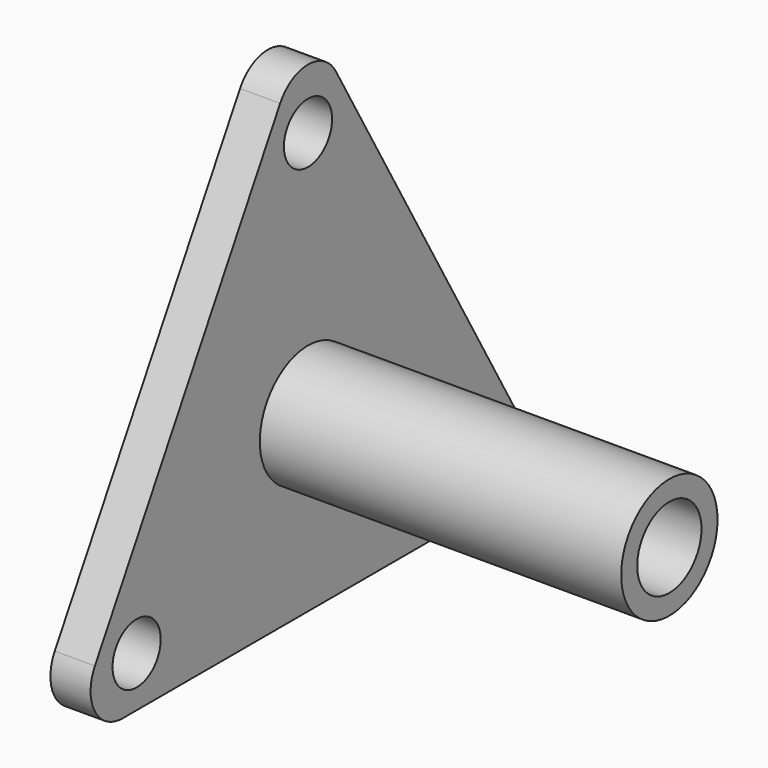
from build123d import *

# Parameters (mm, degrees)
F0_R     = 15
F0_R_2   = 10
F1_DEPTH = 100
F3_DEPTH = 10
F4_R     = 10
F5_R     = 7.5
F5_R_2   = 10
F6_DEPTH = 100.001


with BuildPart() as f1:
    # F0 (on Right) → F1 (new body)
    with BuildSketch(Plane.YZ):
        Circle(F0_R)
        Circle(F0_R_2, mode=Mode.SUBTRACT)
    extrude(amount=F1_DEPTH)

    # F2 (on Right) → F3 (join)
    with BuildSketch(Plane.YZ):
        Polygon((0, 86.60254), (-75, -43.30127), (75, -43.30127), align=None)
    extrude(amount=F3_DEPTH)

    # F4
    f4_edges = [f1.edges().sort_by_distance(p)[0] for p in [
        (5, 0, 86.60254),
        (5, 75, -43.30127),
        (5, -75, -43.30127),
    ]]
    fillet(f4_edges, radius=F4_R)

    # F5 (on Right) → F6 (cut, through all)
    with BuildSketch(Plane.YZ):
        with Locations((0, 61.60254)):
            Circle(F5_R)
        with Locations((53.349365, -30.80127)):
            Circle(F5_R)
        with Locations((-53.349365, -30.80127)):
            Circle(F5_R)
        Circle(F5_R_2)
    extrude(amount=F6_DEPTH, mode=Mode.SUBTRACT)


solid = f1.part
